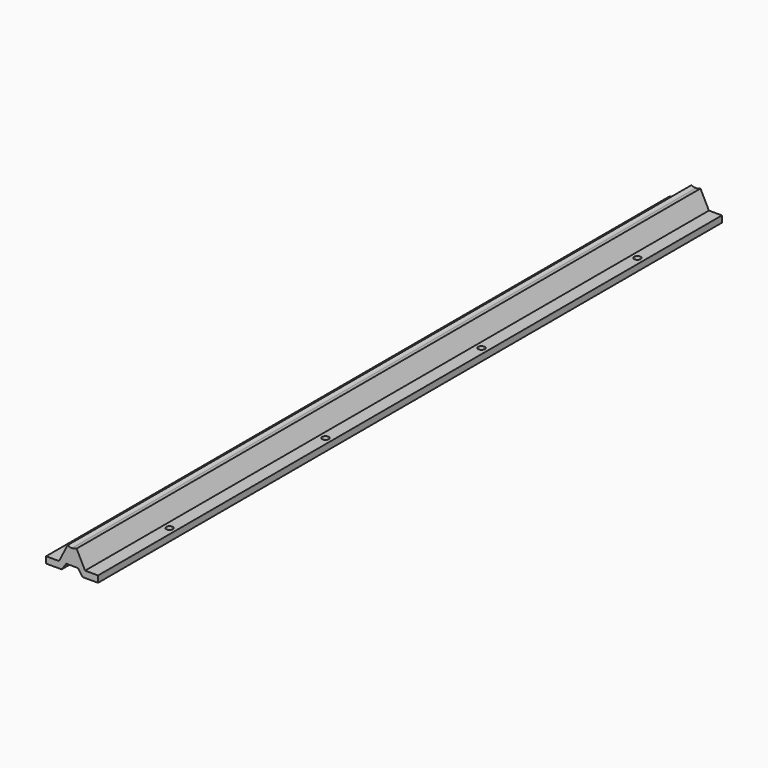
from build123d import *

# Parameters (mm, degrees)
F1_DEPTH = 600
F2_R     = 2.5
F3_DEPTH = 5


with BuildPart() as f1:
    # F0 (on Front) → F1 (new body)
    with BuildSketch(Plane.XZ):
        with BuildLine():
            Line((-4.5, -20), (0, -20))
            Line((0, -20), (4.5, -20))
            Line((4.5, -20), (8, -25))
            Line((8, -25), (20, -25))
            Line((20, -25), (20, -20))
            Line((20, -20), (10, -20))
            Line((10, -20), (3.5, -7.193747))
            ThreePointArc((3.5, -7.193747), (1.795832, -7.795832), (0, -8))
            ThreePointArc((0, -8), (-1.795832, -7.795832), (-3.5, -7.193747))
            Line((-3.5, -7.193747), (-10, -20))
            Line((-10, -20), (-20, -20))
            Line((-20, -20), (-20, -25))
            Line((-20, -25), (-8, -25))
            Line((-8, -25), (-4.5, -20))
        make_face()
    extrude(amount=F1_DEPTH)

    # F2 (on face) → F3 (cut, through all)
    with BuildSketch(Plane.XY.offset(-20)):
        with Locations((15, -525)):
            Circle(F2_R)
        with Locations((15, -375)):
            Circle(F2_R)
        with Locations((-15, -375)):
            Circle(F2_R)
        with Locations((-15, -525)):
            Circle(F2_R)
        with Locations((-15, -225)):
            Circle(F2_R)
        with Locations((15, -225)):
            Circle(F2_R)
        with Locations((-15, -75)):
            Circle(F2_R)
        with Locations((15, -75)):
            Circle(F2_R)
    extrude(amount=-F3_DEPTH, mode=Mode.SUBTRACT)


solid = f1.part
